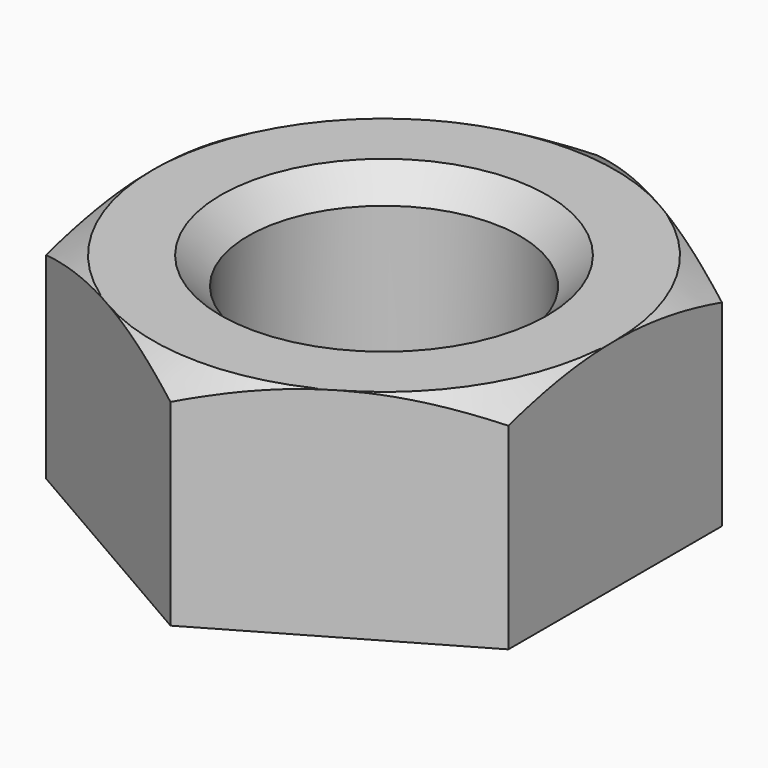
from build123d import *

# Parameters (mm, degrees)
F0_R     = 5
F1_DEPTH = 8
F2_SIZE  = 1


with BuildPart() as f1:
    # F0 (on Top) → F1 (new body)
    with BuildSketch(Plane.XY):
        Polygon((0, -9.814955), (8.5, -4.907477), (8.5, 4.907477), (0, 9.814955), (-8.5, 4.907477), (-8.5, -4.907477), align=None)
        Circle(F0_R, mode=Mode.SUBTRACT)
    extrude(amount=F1_DEPTH)

    # F2
    f2_edges = [f1.edges().sort_by_distance(p)[0] for p in [
        (-5, 0, 8),
        (-5, 0, 0),
    ]]
    chamfer(f2_edges, length=F2_SIZE)

    # F3 (on Front) → F4 (revolve, cut)
    with BuildSketch(Plane.XZ):
        Polygon((18.032537, 8), (8.5, 8), (18.032537, 2.496387), align=None)
    revolve(axis=Axis((0, 0, 4), (0, 0, -1)), mode=Mode.SUBTRACT)


solid = f1.part
